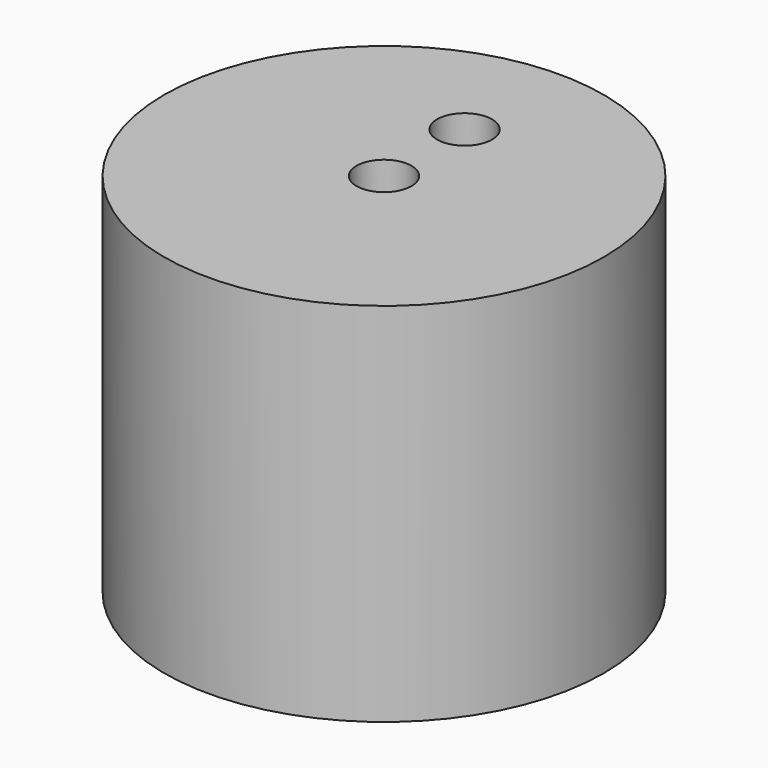
from build123d import *

# Parameters (mm, degrees)
F0_R     = 6
F0_R_2   = 4.25
F1_DEPTH = 10
F2_DEPTH = 8
F3_D     = 1.5


with BuildPart() as f1:
    # F0 (on Top) → F1 (new body)
    with BuildSketch(Plane.XY):
        with Locations((0, -0.5465864819)):
            Circle(F0_R)
        with Locations((0, -0.5465864819)):
            Circle(F0_R_2, mode=Mode.SUBTRACT)
        with Locations((0, -0.5465864819)):
            Circle(F0_R_2)
    extrude(amount=F1_DEPTH)

    # F0 (on Top) → F2 (cut)
    with BuildSketch(Plane.XY):
        with Locations((0, -0.5465864819)):
            Circle(F0_R_2)
    extrude(amount=F2_DEPTH, mode=Mode.SUBTRACT)

    # F3 (through all)
    with Locations(Plane(origin=(0, 0, 0), x_dir=(1, 0, 0), z_dir=(0, 0, -1))):
        with Locations((0, 0.5465864819), (0, -2.2034135181)):
            Hole(F3_D / 2)


solid = f1.part
